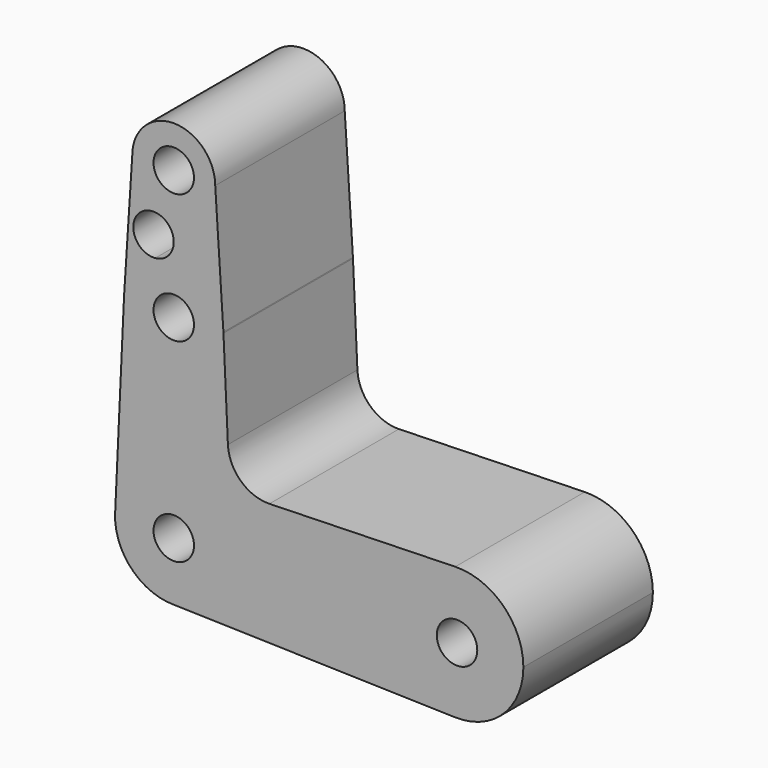
from build123d import *

# Parameters (mm, degrees)
F0_R     = 3.175
F1_DEPTH = 25.4


with BuildPart() as f1:
    # F0 (on Front) → F1 (new body)
    with BuildSketch(Plane.XZ):
        with BuildLine():
            ThreePointArc((-6.507071, 50.8), (0, 44.292929), (6.507071, 50.8))
            ThreePointArc((6.507071, 50.8), (0, 57.307071), (-6.507071, 50.8))
        make_face()
        with Locations((0, 50.8)):
            Circle(F0_R, mode=Mode.SUBTRACT)
        with BuildLine():
            ThreePointArc((9.2075, 0), (0.211295, 9.205075), (-9.197802, 0.422479))
            ThreePointArc((-9.197802, 0.422479), (-6.658379, -6.359563), (0, -9.2075))
            ThreePointArc((0, -9.2075), (6.510686, -6.510686), (9.2075, 0))
        make_face()
        Circle(F0_R, mode=Mode.SUBTRACT)
        with BuildLine():
            ThreePointArc((54.857703, 0), (51.709039, 7.458327), (44.168189, 10.403887))
            ThreePointArc((44.168189, 10.403887), (34.042297, 0), (44.168189, -10.403887))
            ThreePointArc((44.168189, -10.403887), (51.709039, -7.458327), (54.857703, 0))
        make_face()
        with Locations((44.45, 0)):
            Circle(F0_R, mode=Mode.SUBTRACT)
        with BuildLine():
            Line((7.792568, 30.985557), (6.507071, 50.8))
            ThreePointArc((6.507071, 50.8), (0, 44.292929), (-6.507071, 50.8))
            Line((-6.507071, 50.8), (-7.792568, 30.985557))
            ThreePointArc((-7.792568, 30.985557), (-6.321894, 35.064034), (-2.902509, 37.729493))
            ThreePointArc((-2.902509, 37.729493), (-5.514421, 43.039341), (0, 40.892778))
            ThreePointArc((0, 40.892778), (-0.439454, 39.281128), (-1.636167, 38.115618))
            ThreePointArc((-1.636167, 38.115618), (4.71007, 36.708559), (7.792568, 30.985557))
        make_face()
        with BuildLine():
            ThreePointArc((7.800726, 30.838307), (7.796995, 30.911951), (7.792568, 30.985557))
            ThreePointArc((7.792568, 30.985557), (4.71007, 36.708559), (-1.636167, 38.115618))
            ThreePointArc((-1.636167, 38.115618), (-2.248989, 37.855818), (-2.902509, 37.729493))
            ThreePointArc((-2.902509, 37.729493), (-6.321894, 35.064034), (-7.792568, 30.985557))
            ThreePointArc((-7.792568, 30.985557), (-7.796995, 30.911951), (-7.800726, 30.838307))
            ThreePointArc((-7.800726, 30.838307), (-0.179201, 22.673106), (7.80895, 30.48))
            ThreePointArc((7.80895, 30.48), (7.806894, 30.659201), (7.800726, 30.838307))
        make_face()
        with Locations((0, 30.48)):
            Circle(F0_R, mode=Mode.SUBTRACT)
        with BuildLine():
            Line((8.497322, 15.672671), (7.800726, 30.838307))
            ThreePointArc((7.800726, 30.838307), (7.806894, 30.659201), (7.80895, 30.48))
            ThreePointArc((7.80895, 30.48), (-0.179201, 22.673106), (-7.800726, 30.838307))
            Line((-7.800726, 30.838307), (-9.197802, 0.422479))
            ThreePointArc((-9.197802, 0.422479), (0.211295, 9.205075), (9.2075, 0))
            ThreePointArc((9.2075, 0), (6.510686, -6.510686), (0, -9.2075))
            Line((0, -9.2075), (44.168189, -10.403887))
            ThreePointArc((44.168189, -10.403887), (34.042297, 0), (44.168189, 10.403887))
            Line((44.168189, 10.403887), (15.012092, 9.616351))
            ThreePointArc((15.012092, 9.616351), (10.517129, 11.313251), (8.497322, 15.672671))
        make_face()
    extrude(amount=F1_DEPTH)


solid = f1.part
